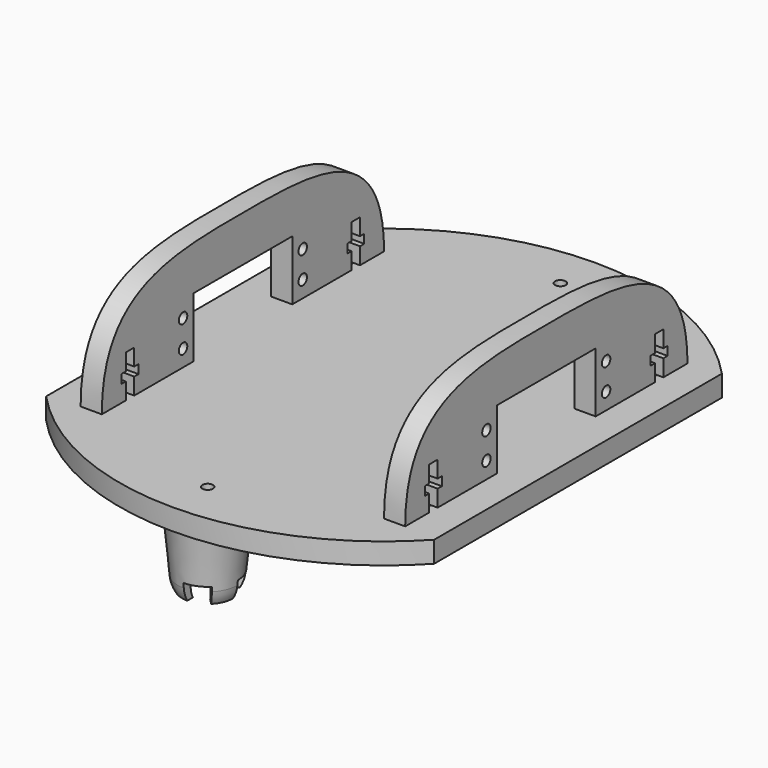
from build123d import *

# Parameters (mm, degrees)
F0_R      = 1.5
F0_W      = 6
F0_H      = 10
F1_DEPTH  = 6
F2_R      = 1.5
F3_DEPTH  = 6
F8_D      = 2.5
F8_DEPTH  = 10
F8_TIP    = 0.7510757738
F10_DEPTH = 5


with BuildPart() as f1:
    # F0 (on Top) → F1 (new body)
    with BuildSketch(Plane.XY):
        with BuildLine():
            Line((55, -50.9901951359), (55, 50.9901951359))
            ThreePointArc((55, 50.9901951359), (0, 75), (-55, 50.9901951359))
            Line((-55, 50.9901951359), (-55, -50.9901951359))
            ThreePointArc((-55, -50.9901951359), (0, -75), (55, -50.9901951359))
        make_face()
        with Locations((-43, -40)):
            Circle(F0_R, mode=Mode.SUBTRACT)
        with Locations((-43, -25)):
            Rectangle(F0_W, F0_H, mode=Mode.SUBTRACT)
        with Locations((0, -62.5)):
            Circle(F0_R, mode=Mode.SUBTRACT)
        with Locations((43, -40)):
            Circle(F0_R, mode=Mode.SUBTRACT)
        with Locations((43, -25)):
            Rectangle(F0_W, F0_H, mode=Mode.SUBTRACT)
        with Locations((-43, 25)):
            Rectangle(F0_W, F0_H, mode=Mode.SUBTRACT)
        with Locations((-43, 40)):
            Circle(F0_R, mode=Mode.SUBTRACT)
        with Locations((43, 25)):
            Rectangle(F0_W, F0_H, mode=Mode.SUBTRACT)
        with Locations((0, 62.5)):
            Circle(F0_R, mode=Mode.SUBTRACT)
        with Locations((43, 40)):
            Circle(F0_R, mode=Mode.SUBTRACT)
    extrude(amount=F1_DEPTH)


with BuildPart() as f3:
    # F2 (on face) → F3 (new body)
    with BuildSketch(Plane.YZ.offset(40)):
        with BuildLine():
            Line((-30, 6), (-30, 0))
            Line((-30, 0), (-20, 0))
            Line((-20, 0), (-20, 6))
            Line((-20, 6), (-17.5, 6))
            Line((-17.5, 6), (-17.5, 23))
            Line((-17.5, 23), (17.5, 23))
            Line((17.5, 23), (17.5, 6))
            Line((17.5, 6), (20, 6))
            Line((20, 6), (20, 0))
            Line((20, 0), (30, 0))
            Line((30, 0), (30, 6))
            Line((30, 6), (38.5, 6))
            Line((38.5, 6), (38.5, 10.75))
            Line((38.5, 10.75), (37, 10.75))
            Line((37, 10.75), (37, 13.25))
            Line((37, 13.25), (38.5, 13.25))
            Line((38.5, 13.25), (38.5, 18))
            Line((38.5, 18), (41.5, 18))
            Line((41.5, 18), (41.5, 13.25))
            Line((41.5, 13.25), (43, 13.25))
            Line((43, 13.25), (43, 10.75))
            Line((43, 10.75), (41.5, 10.75))
            Line((41.5, 10.75), (41.5, 6))
            Line((41.5, 6), (50, 6))
            add(Edge.make_bspline(
                [(-50, 6), (-50, 36), (0, 36), (50, 36), (50, 6)],
                knots=[0, 0, 0, 0, 0.5, 1, 1, 1, 1], degree=3))
            Line((-50, 6), (-41.5, 6))
            Line((-41.5, 6), (-41.5, 10.75))
            Line((-41.5, 10.75), (-43, 10.75))
            Line((-43, 10.75), (-43, 13.25))
            Line((-43, 13.25), (-41.5, 13.25))
            Line((-41.5, 13.25), (-41.5, 18))
            Line((-41.5, 18), (-38.5, 18))
            Line((-38.5, 18), (-38.5, 13.25))
            Line((-38.5, 13.25), (-37, 13.25))
            Line((-37, 13.25), (-37, 10.75))
            Line((-37, 10.75), (-38.5, 10.75))
            Line((-38.5, 10.75), (-38.5, 6))
            Line((-38.5, 6), (-30, 6))
        make_face()
        with Locations((-21.2, 10.7)):
            Circle(F2_R, mode=Mode.SUBTRACT)
        with Locations((21.2, 10.7)):
            Circle(F2_R, mode=Mode.SUBTRACT)
        with Locations((-21.2, 18.3)):
            Circle(F2_R, mode=Mode.SUBTRACT)
        with Locations((21.2, 18.3)):
            Circle(F2_R, mode=Mode.SUBTRACT)
    extrude(amount=F3_DEPTH)


with BuildPart() as f4_1:
    # F4: instance of F3
    add(f3.part.mirror(Plane.YZ))


with BuildPart() as f6:
    # F5 (on Right) → F6 (revolve)
    with BuildSketch(Plane.YZ):
        with BuildLine():
            Line((-62.5, 0), (-72.5, 0))
            Line((-72.5, 0), (-70.9467509056, -15.8288599577))
            ThreePointArc((-70.9467509056, -15.8288599577), (-70.5339544085, -17.7368204642), (-69.6961524227, -19.5))
            Line((-69.6961524227, -19.5), (-67.6961524227, -19.5))
            ThreePointArc((-67.6961524227, -19.5), (-67.6961524227, -13.5), (-62.5, -10.5))
            Line((-62.5, -10.5), (-62.5, 0))
        make_face()
    revolve(axis=Axis((0, -62.5, -11), (0, 0, -1)))

    # F8
    with Locations(Plane.XY):
        with Locations((0, -62.5)):
            Hole(F8_D / 2, depth=F8_DEPTH)
            with Locations((0, 0, -(F8_DEPTH + F8_TIP / 2))):  # 118° drill point
                Cone(0, F8_D / 2, F8_TIP, mode=Mode.SUBTRACT)

    # F9 (on face) → F10 (cut)
    with BuildSketch(Plane(origin=(0, 0, -19.5), x_dir=(1, 0, 0), z_dir=(0, 0, -1))):
        with BuildLine():
            Line((10, 62.5), (0, 62.5))
            Line((0, 62.5), (7.0710678119, 55.4289321881))
            ThreePointArc((7.0710678119, 55.4289321881), (9.2387953251, 58.6731656763), (10, 62.5))
        make_face()
        with BuildLine():
            Line((0, 72.5), (0, 62.5))
            Line((0, 62.5), (7.0710678119, 69.5710678119))
            ThreePointArc((7.0710678119, 69.5710678119), (3.8268343237, 71.7387953251), (0, 72.5))
        make_face()
        with BuildLine():
            Line((-10, 62.5), (0, 62.5))
            Line((0, 62.5), (-7.0710678119, 69.5710678119))
            ThreePointArc((-7.0710678119, 69.5710678119), (-9.2387953251, 66.3268343237), (-10, 62.5))
        make_face()
        with BuildLine():
            Line((0, 52.5), (0, 62.5))
            Line((0, 62.5), (-7.0710678119, 55.4289321881))
            ThreePointArc((-7.0710678119, 55.4289321881), (-3.8268343237, 53.2612046749), (0, 52.5))
        make_face()
    extrude(amount=-F10_DEPTH, mode=Mode.SUBTRACT)


solid = Compound([f1.part, f3.part, f4_1.part, f6.part])
